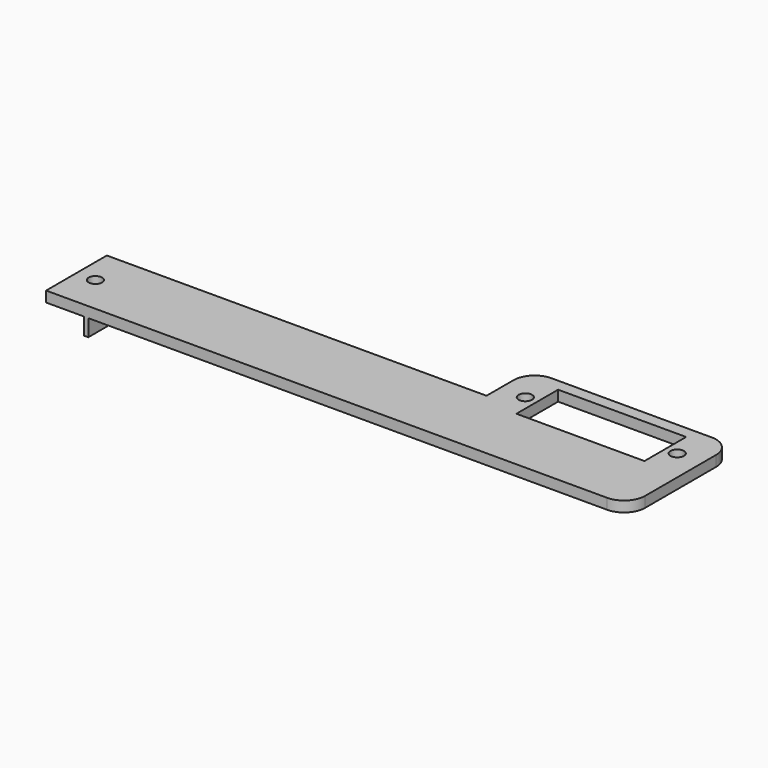
from build123d import *

# Parameters (mm, degrees)
PAD_DEPTH    = 2.5
SKETCH001_R  = 1.6
SKETCH001_W  = 30.35
SKETCH001_H  = 12.35
POCKET_DEPTH = 5
SKETCH002_W  = 1
SKETCH002_H  = 18
PAD001_DEPTH = 4
FILLET_R     = 5


with BuildPart() as part:
    # Sketch → Pad (new body)
    with BuildSketch(Plane.XY):
        Polygon((-69, 9), (21, 9), (21, 22), (69, 22), (69, 10.0438), (69, -9), (-69, -9), align=None)
    extrude(amount=PAD_DEPTH)

    # Sketch001 → Pocket (cut)
    with BuildSketch(Plane.XY.offset(2.5)):
        with Locations((-64.5, 0)):
            Circle(SKETCH001_R)
        with Locations((27, 13)):
            Circle(SKETCH001_R)
        with Locations((63, 13)):
            Circle(SKETCH001_R)
        with Locations((45, 13)):
            Rectangle(SKETCH001_W, SKETCH001_H)
    extrude(amount=-POCKET_DEPTH, mode=Mode.SUBTRACT)

    # Sketch002 → Pad001 (new body)
    with BuildSketch(Plane(origin=(0, 0, 0), x_dir=(1, 0, 0), z_dir=(0, 0, -1))):
        with Locations((-59.5, 0)):
            Rectangle(SKETCH002_W, SKETCH002_H)
    extrude(amount=PAD001_DEPTH)

    # Fillet
    fillet_edges = [part.edges().sort_by_distance(p)[0] for p in [
        (69, 22, 1.25),
        (21, 22, 1.25),
        (69, -9, 1.25),
    ]]
    fillet(fillet_edges, radius=FILLET_R)


solid = part.part
